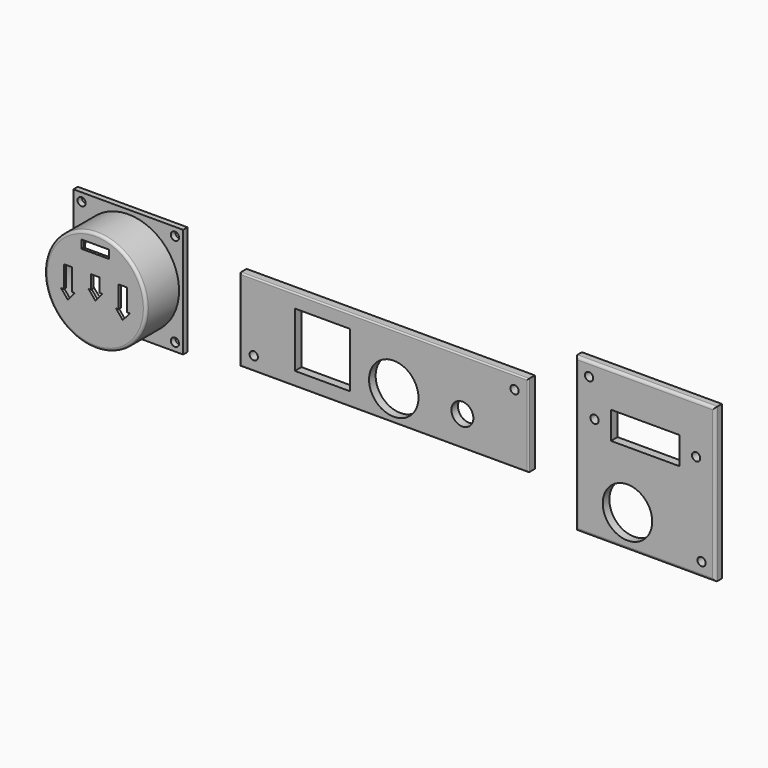
from build123d import *

# Parameters (mm, degrees)
F0_W      = 105
F0_H      = 30
F0_R      = 1.5
F0_R_2    = 9
F0_R_3    = 4
F0_W_2    = 20
F0_H_2    = 20
F1_DEPTH  = 3
F2_R      = 0.5
F3_W      = 51
F3_H      = 56
F3_R      = 9
F3_R_2    = 1.5
F3_W_2    = 25
F3_H_2    = 10
F4_DEPTH  = 3
F5_R      = 1
F6_R      = 18.5
F7_DEPTH  = 15
F8_R      = 1
F9_T      = -1
F10_W     = 10
F10_H     = 3
F11_DEPTH = 1
F12_W     = 40
F12_H     = 40
F12_R     = 1.5
F12_R_2   = 17.5
F13_DEPTH = 2


with BuildPart() as f1:
    # F0 (on Front) → F1 (new body)
    with BuildSketch(Plane.XZ):
        Rectangle(F0_W, F0_H)
        with Locations((-47.5, -10)):
            Circle(F0_R, mode=Mode.SUBTRACT)
        with Locations((3.5, -4)):
            Circle(F0_R_2, mode=Mode.SUBTRACT)
        with Locations((28.5, -4)):
            Circle(F0_R_3, mode=Mode.SUBTRACT)
        with Locations((-22.5, 0)):
            Rectangle(F0_W_2, F0_H_2, mode=Mode.SUBTRACT)
        with Locations((47.5, 10)):
            Circle(F0_R, mode=Mode.SUBTRACT)
    extrude(amount=F1_DEPTH)

    # F2
    f2_edges = [f1.edges().sort_by_distance(p)[0] for p in [
        (0, -3, 15),
        (-52.5, -3, 0),
        (0, -3, -15),
        (52.5, -3, 0),
    ]]
    fillet(f2_edges, radius=F2_R)


with BuildPart() as f4:
    # F3 (on Front) → F4 (new body)
    with BuildSketch(Plane.XZ):
        with Locations((95.1483622193, 0)):
            Rectangle(F3_W, F3_H)
        with Locations((88.6483622193, -16)):
            Circle(F3_R, mode=Mode.SUBTRACT)
        with Locations((115.6483622193, -23)):
            Circle(F3_R_2, mode=Mode.SUBTRACT)
        with Locations((76.6483622193, 10)):
            Circle(F3_R_2, mode=Mode.SUBTRACT)
        with Locations((74.6483622193, 23)):
            Circle(F3_R_2, mode=Mode.SUBTRACT)
        with Locations((95.1483622193, 10)):
            Rectangle(F3_W_2, F3_H_2, mode=Mode.SUBTRACT)
        with Locations((113.6483622193, 10)):
            Circle(F3_R_2, mode=Mode.SUBTRACT)
    extrude(amount=F4_DEPTH)

    # F5
    f5_edges = [f4.edges().sort_by_distance(p)[0] for p in [
        (95.148362, -3, 28),
        (69.648362, -3, 0),
        (120.648362, -3, 0),
        (95.148362, -3, -28),
    ]]
    fillet(f5_edges, radius=F5_R)


with BuildPart() as f7:
    # F6 (on Front) → F7 (new body)
    with BuildSketch(Plane.XZ):
        with Locations((-95.6079661846, 0)):
            Circle(F6_R)
    extrude(amount=F7_DEPTH)

    # F8
    f8_edges = [f7.edges().sort_by_distance(p)[0] for p in [
        (-114.107966, -15, 0),
    ]]
    fillet(f8_edges, radius=F8_R)

    # F9
    f9_openings = [f7.faces().sort_by_distance(p)[0] for p in [
        (-95.607966, 0, 0),
    ]]
    offset(amount=F9_T, openings=f9_openings, kind=Kind.INTERSECTION)

    # F10 (on face) → F11 (cut)
    with BuildSketch(Plane.XZ.offset(15)):
        with Locations((-95.6079661846, 13.3706506472)):
            Rectangle(F10_W, F10_H)
        Polygon((-104.1079661846, -3.1293493528), (-104.1079661846, 4.8706506472), (-107.1079661846, 4.8706506472), (-107.1079661846, -3.1293493528), (-108.1079661846, -3.1293493528), (-105.6079661846, -6.1293493528), (-103.1079661846, -3.1293493528), align=None)
        Polygon((-84.1079661846, -3.1293493528), (-84.1079661846, 4.8706506472), (-87.1079661846, 4.8706506472), (-87.1079661846, -3.1293493528), (-88.1079661846, -3.1293493528), (-85.6079661846, -6.1293493528), (-83.1079661846, -3.1293493528), align=None)
        Polygon((-94.1079661846, -0.1293493528), (-94.1079661846, 4.8706506472), (-97.1079661846, 4.8706506472), (-97.1079661846, -0.1293493528), (-98.1079661846, -0.1293493528), (-95.6079661846, -3.1293493528), (-93.1079661846, -0.1293493528), align=None)
    extrude(amount=-F11_DEPTH, mode=Mode.SUBTRACT)

    # F12 (on Front) → F13 (join)
    with BuildSketch(Plane.XZ):
        with Locations((-95.6079661846, 0)):
            Rectangle(F12_W, F12_H)
        with Locations((-112.6079661846, -17)):
            Circle(F12_R, mode=Mode.SUBTRACT)
        with Locations((-78.6079661846, -17)):
            Circle(F12_R, mode=Mode.SUBTRACT)
        with Locations((-112.6079661846, 17)):
            Circle(F12_R, mode=Mode.SUBTRACT)
        with Locations((-95.6079661846, 0)):
            Circle(F12_R_2, mode=Mode.SUBTRACT)
        with Locations((-78.6079661846, 17)):
            Circle(F12_R, mode=Mode.SUBTRACT)
    extrude(amount=-F13_DEPTH)


solid = Compound([f1.part, f4.part, f7.part])
